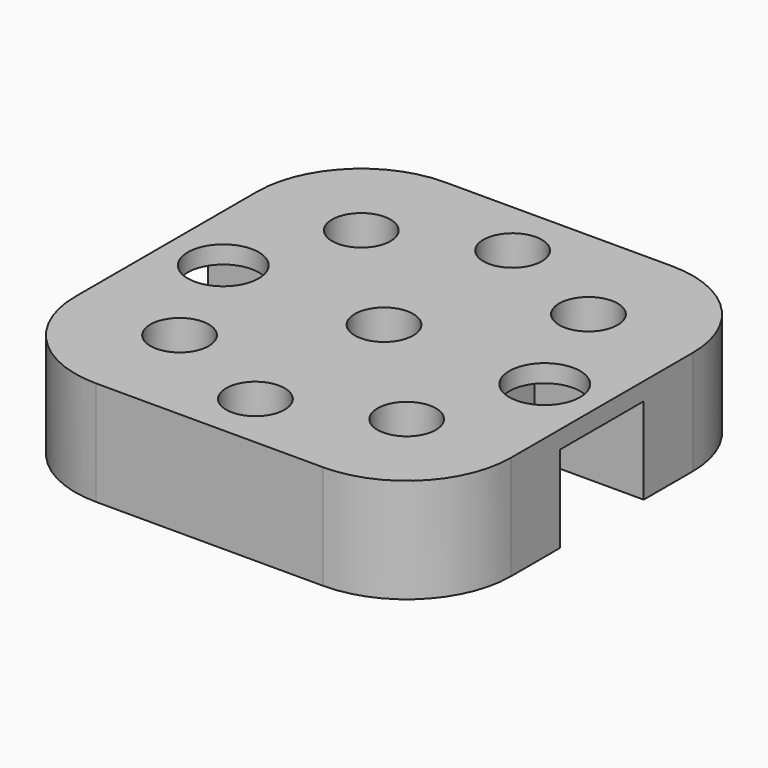
from build123d import *

# Parameters (mm, degrees)
F0_R     = 1.778
F0_W     = 6.6548
F0_H     = 6.35
F0_R_2   = 2.159
F1_DEPTH = 6.35
F2_DEPTH = 5.2705


with BuildPart() as f1:
    # F0 (on Top) → F1 (new body)
    with BuildSketch(Plane.XY):
        with BuildLine():
            ThreePointArc((13.2588, 6.9088), (11.398928, 11.398928), (6.9088, 13.2588))
            Line((6.9088, 13.2588), (-6.9088, 13.2588))
            ThreePointArc((-6.9088, 13.2588), (-11.398928, 11.398928), (-13.2588, 6.9088))
            Line((-13.2588, 6.9088), (-13.2588, 3.175))
            Line((-13.2588, 3.175), (-6.604, 3.175))
            Line((-6.604, 3.175), (-6.604, -3.175))
            Line((-6.604, -3.175), (-13.2588, -3.175))
            Line((-13.2588, -3.175), (-13.2588, -6.9088))
            ThreePointArc((-13.2588, -6.9088), (-11.398928, -11.398928), (-6.9088, -13.2588))
            Line((-6.9088, -13.2588), (6.9088, -13.2588))
            ThreePointArc((6.9088, -13.2588), (11.398928, -11.398928), (13.2588, -6.9088))
            Line((13.2588, -6.9088), (13.2588, -3.175))
            Line((13.2588, -3.175), (6.604, -3.175))
            Line((6.604, -3.175), (6.604, 3.175))
            Line((6.604, 3.175), (13.2588, 3.175))
            Line((13.2588, 3.175), (13.2588, 6.9088))
        make_face()
        with Locations((-6.9088, -6.9088)):
            Circle(F0_R, mode=Mode.SUBTRACT)
        with Locations((0, -9.779)):
            Circle(F0_R, mode=Mode.SUBTRACT)
        Circle(F0_R, mode=Mode.SUBTRACT)
        with Locations((6.9088, -6.9088)):
            Circle(F0_R, mode=Mode.SUBTRACT)
        with Locations((-6.9088, 6.9088)):
            Circle(F0_R, mode=Mode.SUBTRACT)
        with Locations((0, 9.779)):
            Circle(F0_R, mode=Mode.SUBTRACT)
        with Locations((6.9088, 6.9088)):
            Circle(F0_R, mode=Mode.SUBTRACT)
        with Locations((9.9314, 0)):
            Rectangle(F0_W, F0_H)
        with Locations((9.779, 0)):
            Circle(F0_R_2, mode=Mode.SUBTRACT)
        with Locations((-9.9314, 0)):
            Rectangle(F0_W, F0_H)
        with Locations((-9.779, 0)):
            Circle(F0_R_2, mode=Mode.SUBTRACT)
    extrude(amount=F1_DEPTH)

    # F0 (on Top) → F2 (cut)
    with BuildSketch(Plane.XY):
        with Locations((-9.9314, 0)):
            Rectangle(F0_W, F0_H)
        with Locations((-9.779, 0)):
            Circle(F0_R_2, mode=Mode.SUBTRACT)
        with Locations((9.9314, 0)):
            Rectangle(F0_W, F0_H)
        with Locations((9.779, 0)):
            Circle(F0_R_2, mode=Mode.SUBTRACT)
    extrude(amount=F2_DEPTH, mode=Mode.SUBTRACT)


solid = f1.part
